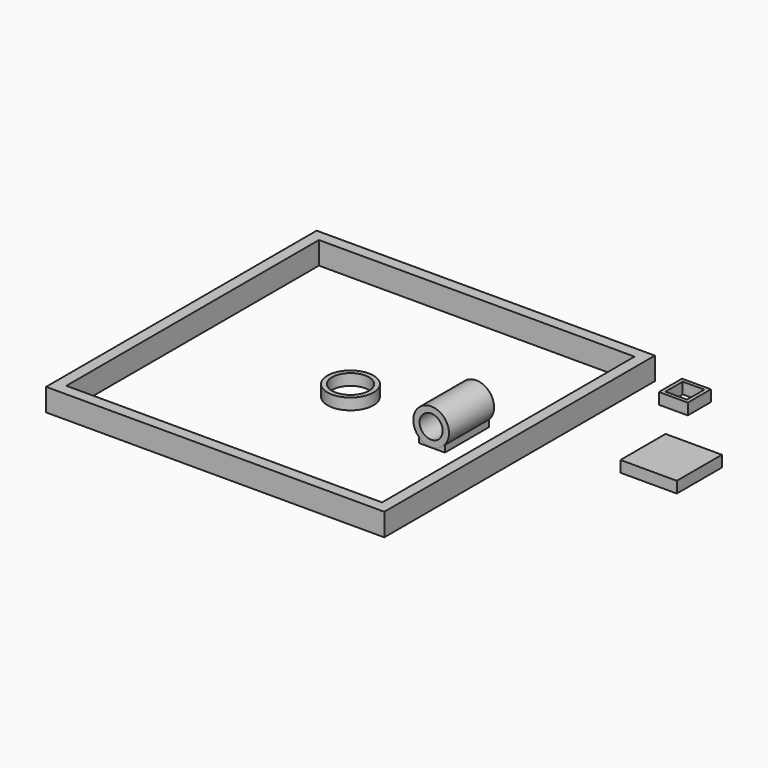
from build123d import *

# Parameters (mm, degrees)
F0_W     = 150
F0_H     = 150
F0_W_2   = 140
F0_H_2   = 140
F1_DEPTH = 10
F0_R     = 10.2
F0_R_2   = 8.2
F2_DEPTH = 5
F0_R_3   = 7.925
F0_R_4   = 5.125
F3_DEPTH = 25
F4_ANGLE = 90
F6_W     = 11.461680755
F6_H     = 24.3612193444
F7_DEPTH = 3
F8_W     = 12.8
F8_H     = 12.8
F8_W_2   = 9.6
F8_H_2   = 9.6
F9_DEPTH = 5
F8_W_3   = 25
F8_H_3   = 25


with BuildPart() as f1:
    # F0 (on Top) → F1 (new body)
    with BuildSketch(Plane.XY):
        Rectangle(F0_W, F0_H)
        Rectangle(F0_W_2, F0_H_2, mode=Mode.SUBTRACT)
    extrude(amount=F1_DEPTH)


with BuildPart() as f2:
    # F0 (on Top) → F2 (new body)
    with BuildSketch(Plane.XY):
        Circle(F0_R)
        Circle(F0_R_2, mode=Mode.SUBTRACT)
    extrude(amount=F2_DEPTH)


with BuildPart() as f3:
    # F0 (on Top) → F3 (new body)
    with BuildSketch(Plane.XY):
        with Locations((35.7744656503, 0)):
            Circle(F0_R_3)
        with Locations((35.7744656503, 0)):
            Circle(F0_R_4, mode=Mode.SUBTRACT)
    extrude(amount=F3_DEPTH)


with BuildPart() as f3_1:
    # F4: moved
    add(f3.part.rotate(Axis((-24.074178189, 0, 0), (-1, 0, 0)), F4_ANGLE))

    # F6 (on offset) → F7 (join)
    with BuildSketch(Plane.XY.offset(-8.4)):
        with Locations((35.897471942, 12.509433509)):
            Rectangle(F6_W, F6_H)
    extrude(amount=F7_DEPTH)


with BuildPart() as f9:
    # F8 (on offset) → F9 (new body)
    with BuildSketch(Plane.XY.offset(-8.4)):
        with Locations((83.470857326, 81.062909615)):
            Rectangle(F8_W, F8_H)
        with Locations((83.470857326, 81.062909615)):
            Rectangle(F8_W_2, F8_H_2, mode=Mode.SUBTRACT)
    extrude(amount=F9_DEPTH)


with BuildPart() as f9b:
    # F8 (on offset) → F9, piece 2 (new body)
    with BuildSketch(Plane.XY.offset(-8.4)):
        with Locations((111.0130876303, 39.0334695578)):
            Rectangle(F8_W_3, F8_H_3)
    extrude(amount=F9_DEPTH)


solid = Compound([f1.part, f2.part, f3_1.part, f9.part, f9b.part])
